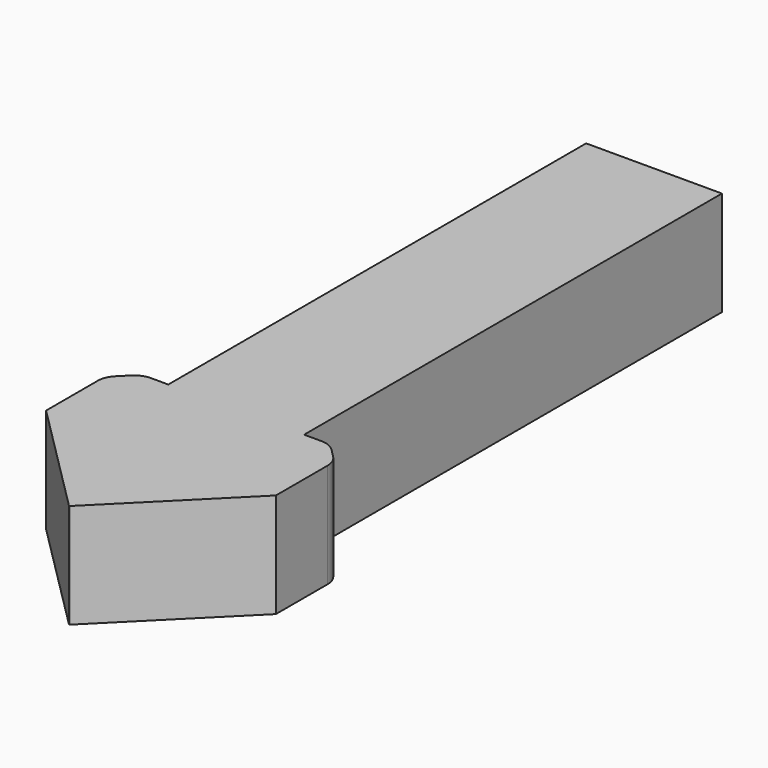
from build123d import *

# Parameters (mm, degrees)
F1_DEPTH = 10
F2_R     = 0.1
F3_SIZE  = 2
F4_R     = 2


with BuildPart() as f1:
    # F0 (on Top) → F1 (new body)
    with BuildSketch(Plane.XY):
        Polygon((6.5, 20), (6.5, 70), (0, 70), (-6.5, 70), (-6.5, 20), (-11, 20), (-11, 11), (0, 0), (11, 11), (11, 20), align=None)
    extrude(amount=F1_DEPTH)

    # F2
    f2_edges = [f1.edges().sort_by_distance(p)[0] for p in [
        (0, 0, 5),
    ]]
    fillet(f2_edges, radius=F2_R)

    # F3
    f3_edges = [f1.edges().sort_by_distance(p)[0] for p in [
        (-11, 20, 5),
        (11, 20, 5),
    ]]
    chamfer(f3_edges, length=F3_SIZE)

    # F4
    f4_edges = [f1.edges().sort_by_distance(p)[0] for p in [
        (9, 20, 5),
        (11, 18, 5),
        (-9, 20, 5),
        (-11, 18, 5),
    ]]
    fillet(f4_edges, radius=F4_R)


solid = f1.part
